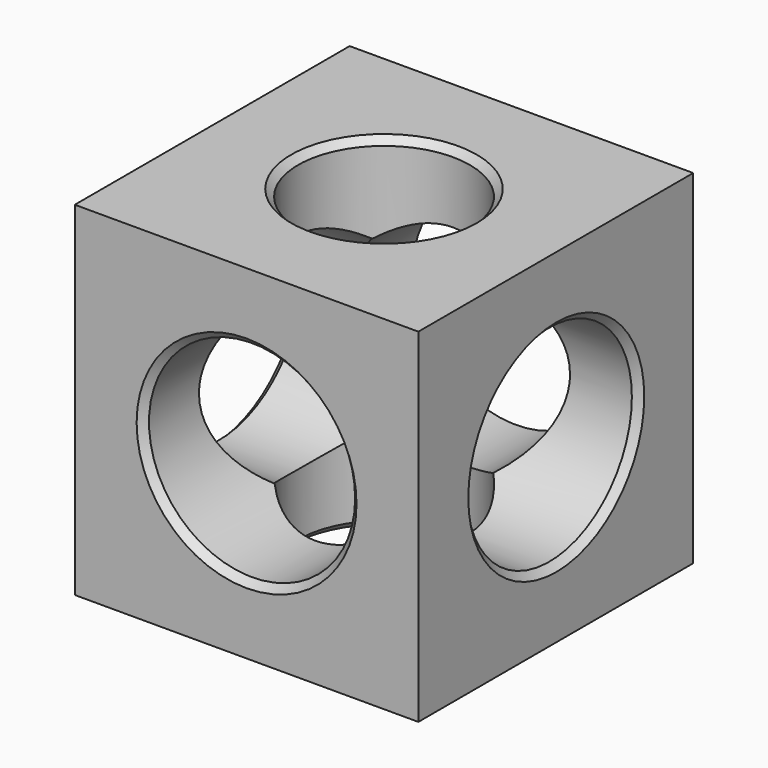
from build123d import *

# Parameters (mm, degrees)
F0_W     = 50
F0_H     = 50
F1_DEPTH = 50
F2_R     = 15
F3_DEPTH = 50.001
F4_R     = 15
F5_DEPTH = 50.001
F6_R     = 12.5
F7_DEPTH = 50.001
F8_SIZE  = 1


with BuildPart() as f1:
    # F0 (on Top) → F1 (new body)
    with BuildSketch(Plane.XY):
        with Locations((-62.7328101546, -0.0872552718)):
            Rectangle(F0_W, F0_H)
    extrude(amount=F1_DEPTH)

    # F2 (on face) → F3 (cut, through all)
    with BuildSketch(Plane.XZ.offset(25.0872552718)):
        with Locations((-62.7328101546, 25)):
            Circle(F2_R)
    extrude(amount=-F3_DEPTH, mode=Mode.SUBTRACT)

    # F4 (on face) → F5 (cut, through all)
    with BuildSketch(Plane.YZ.offset(-37.7328101546)):
        with Locations((0, 25)):
            Circle(F4_R)
    extrude(amount=-F5_DEPTH, mode=Mode.SUBTRACT)

    # F6 (on face) → F7 (cut, through all)
    with BuildSketch(Plane.XY.offset(50)):
        with Locations((-62.7328101546, -0.0872552718)):
            Circle(F6_R)
    extrude(amount=-F7_DEPTH, mode=Mode.SUBTRACT)

    # F8
    f8_edges = [f1.edges().sort_by_distance(p)[0] for p in [
        (-77.73281, -25.087255, 25),
        (-37.73281, -15, 25),
        (-75.23281, -0.087255, 50),
        (-77.73281, 24.912745, 25),
        (-75.23281, -0.087255, 0),
        (-87.73281, -15, 25),
    ]]
    chamfer(f8_edges, length=F8_SIZE)


solid = f1.part
